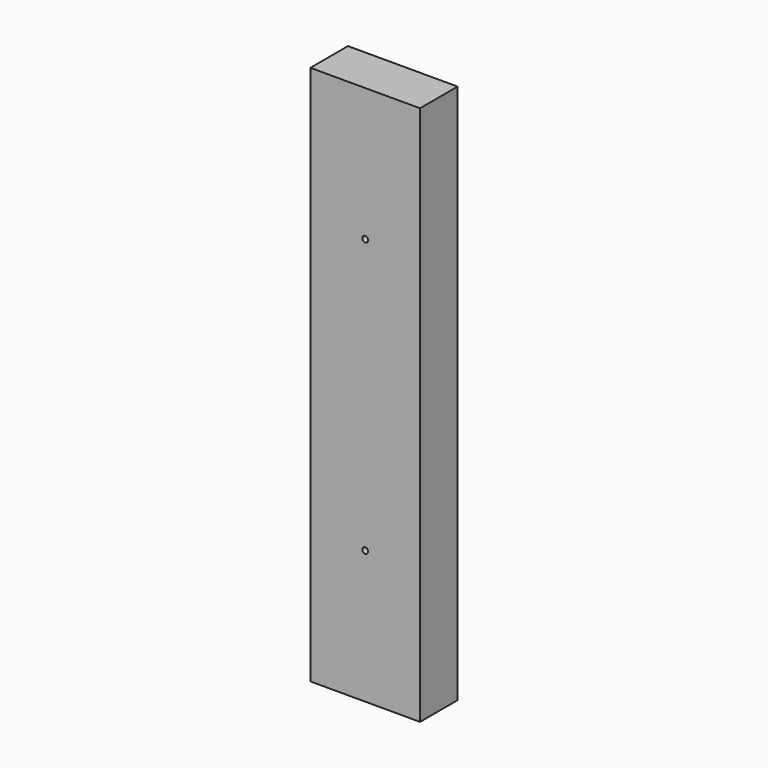
from build123d import *

# Parameters (mm, degrees)
SKETCH001_AS_DRAWN_R                 = 2.38125
EXTRUDE001_DEPTH                     = 76.2
EXTRUDE001_ONTO_SKETCH001_ROLL_ANGLE = 90
SKETCH_W                             = 88.9
SKETCH_H                             = 38.1
EXTRUDE_DEPTH                        = 438.15


with BuildPart() as extrude001:
    # Sketch001 as drawn → Extrude001 (new)
    with BuildSketch(Plane.XY):
        with Locations((44.45, 107.95)):
            Circle(SKETCH001_AS_DRAWN_R)
        with Locations((44.45, 330.2)):
            Circle(SKETCH001_AS_DRAWN_R)
    extrude(amount=-EXTRUDE001_DEPTH)


with BuildPart() as extrude001_1:
    # Extrude001 onto Sketch001 roll: moved
    add(extrude001.part.rotate(Axis((0, 0, 0), (1, 0, 0)), EXTRUDE001_ONTO_SKETCH001_ROLL_ANGLE))


with BuildPart() as extrude001_2:
    # Extrude001 onto Sketch001 placement: moved
    add(extrude001_1.part)


with BuildPart() as cut:
    # Sketch → Extrude (new body)
    with BuildSketch(Plane.XY):
        with Locations((44.45, 19.05)):
            Rectangle(SKETCH_W, SKETCH_H)
    extrude(amount=EXTRUDE_DEPTH)

    # Cut: cut Extrude001
    add(extrude001_2.part, mode=Mode.SUBTRACT)


solid = cut.part
